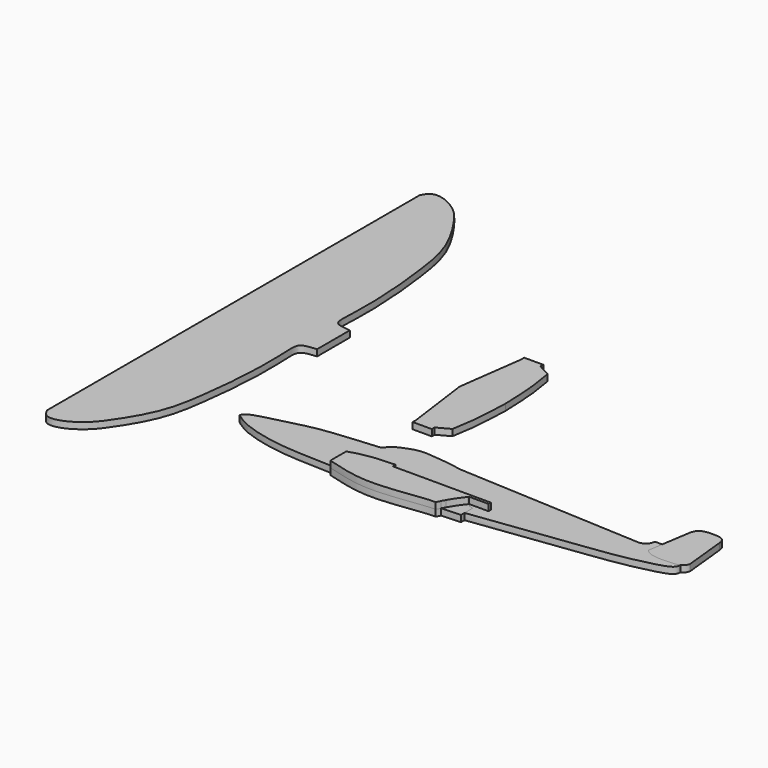
from build123d import *

# Parameters (mm, degrees)
F1_DEPTH = 5
F2_DEPTH = 5
F3_DEPTH = 5
F4_DEPTH = 5
F6_DEPTH = 5
F7_DEPTH = 5


with BuildPart() as f1:
    # F0 (on Top) → F1 (new body)
    with BuildSketch(Plane.XY):
        with BuildLine():
            Line((-207.6593637466, 10.0016277283), (-207.6593637466, -171.281978488))
            Line((-207.6593637466, -171.281978488), (-207.6593637466, -352.5655847043))
            add(Edge.make_bspline(
                [(-207.6593637466, -352.5655847043), (-206.3747216383, -354.8831175934), (-203.5310820846, -360.013128627), (-190.9650472226, -358.2474002693), (-177.3750296826, -348.8340273323), (-168.2906423465, -336.7192990207), (-150.8975639609, -309.0432472585), (-146.2628047298, -276.6532679829), (-143.0140328869, -250.0683610752), (-141.684480736, -218.266454162), (-142.4449634275, -206.8988884057), (-143.0588984681, -193.3498568449), (-140.8375847386, -188.3309381959), (-133.9440855533, -187.5906985826), (-129.7612637281, -187.1415376663)],
                knots=[0, 0, 0, 0, 0.0561235656, 0.1242331931, 0.2068389521, 0.2871011345, 0.4032578051, 0.520829172, 0.629954847, 0.7437946306, 0.8157831511, 0.8890225455, 0.9326613515, 1, 1, 1, 1], degree=3))
            Line((-129.7612637281, -187.1415376663), (-129.7612637281, -171.281978488))
            Line((-129.7612637281, -171.281978488), (-129.7612637281, -155.4224193096))
            add(Edge.make_bspline(
                [(-207.6593637466, 10.0016277283), (-206.3747216383, 12.3191606174), (-203.5310820846, 17.4491716511), (-190.9650472226, 15.6834432933), (-177.3750296826, 6.2700703563), (-168.2906423465, -5.8446579552), (-150.8975639609, -33.5207097175), (-146.2628047298, -65.910688993), (-143.0140328869, -92.4955959007), (-141.684480736, -124.2975028139), (-142.4449634275, -135.6650685702), (-143.0588984681, -149.214100131), (-140.8375847386, -154.2330187801), (-133.9440855533, -154.9732583934), (-129.7612637281, -155.4224193096)],
                knots=[0, 0, 0, 0, 0.0561235656, 0.1242331931, 0.2068389521, 0.2871011345, 0.4032578051, 0.520829172, 0.629954847, 0.7437946306, 0.8157831511, 0.8890225455, 0.9326613515, 1, 1, 1, 1], degree=3))
        make_face()
    extrude(amount=F1_DEPTH)


with BuildPart() as f2:
    # F0 (on Top) → F2 (new body)
    with BuildSketch(Plane.XY):
        with BuildLine():
            add(Edge.make_bspline(
                [(-112.391538918, -284.2938899994), (-111.8447805702, -283.1501024333), (-110.1606854076, -279.6270705224), (-91.2904582102, -275.3555163111), (-68.5847323573, -269.0118817211), (-47.8460745585, -266.4454808862), (-28.8688639212, -264.8961643914), (-18.5512062162, -264.0538215637)],
                knots=[0, 0, 0, 0, 0.0962974245, 0.2966100608, 0.5299407783, 0.7444350362, 1, 1, 1, 1], degree=3))
            add(Edge.make_bspline(
                [(-25.9523354471, -301.6351946396), (-29.1087058783, -301.4822739267), (-45.9038967663, -300.7009819231), (-69.2683124957, -300.6155547429), (-100.6468717996, -292.6647758588), (-109.0354293127, -286.6859212213), (-112.391538918, -284.2938899994)],
                knots=[0.7269244672, 0.7269244672, 0.7269244672, 0.7269244672, 0.7488875633, 0.8474896721, 0.9389833859, 1, 1, 1, 1], degree=3))
            Line((-25.9523354471, -301.6351946396), (-25.9523354471, -288.5697484016))
            add(Edge.make_bspline(
                [(8.3733123373, -283.5239334149), (5.457950757, -283.6055303601), (-3.4067164596, -283.9561770844), (-14.8683004783, -285.2741513849), (-22.455646544, -287.4679329531), (-25.9523354471, -288.5697484016)],
                knots=[0.2526391148, 0.2526391148, 0.2526391148, 0.2526391148, 0.4020433546, 0.7237168393, 1, 1, 1, 1], degree=3))
            add(Edge.make_bspline(
                [(23.758623749, -283.2736968994), (18.5300105367, -283.3326492618), (13.3031213573, -283.3859548674), (8.3733123373, -283.5239334149)],
                knots=[0, 0, 0, 0, 0.2526391148, 0.2526391148, 0.2526391148, 0.2526391148], degree=3))
            Line((23.758623749, -283.2736968994), (23.758623749, -286.2446308136))
            Line((23.758623749, -286.2446308136), (59.893632355, -286.3078026348))
            Line((59.893632355, -286.3078026348), (84.6855714917, -286.3511443138))
            Line((84.6855714917, -286.3511443138), (84.6855714917, -288.5697484016))
            Line((84.6855714917, -288.5697484016), (69.5529654622, -288.5697484016))
            add(Edge.make_bspline(
                [(69.1753177527, -289.0595980134), (69.3011219376, -288.8960688063), (69.4270209741, -288.7327887202), (69.5529654622, -288.5697484016)],
                knots=[0.9713766702, 0.9713766702, 0.9713766702, 0.9713766702, 1, 1, 1, 1], degree=3))
            add(Edge.make_bspline(
                [(69.1753177527, -289.0595980134), (69.7090565236, -289.2606077847), (70.8849671943, -289.7915857457), (71.6471028413, -290.8961307081), (73.5670959295, -291.2210691534), (74.6728777885, -291.4082109928)],
                knots=[0.50513394, 0.50513394, 0.50513394, 0.50513394, 0.6111732906, 0.7760629847, 1, 1, 1, 1], degree=3))
            Line((74.6728777885, -291.4082109928), (74.6728777885, -299.4195939721))
            add(Edge.make_bspline(
                [(219.9171489885, -270.9383708003), (219.9160916468, -270.9742452425), (219.866177794, -272.4922690984), (219.1591674255, -276.3032901521), (205.3770728292, -280.4433210086), (182.0951910478, -285.7259451098), (147.2195027629, -289.7830841249), (105.9233740606, -295.6847790187), (79.9219159081, -298.8290535469), (74.6728777885, -299.4195939721)],
                knots=[0.0890817977, 0.0890817977, 0.0890817977, 0.0890817977, 0.0899087706, 0.1241276638, 0.1829098704, 0.2638661796, 0.3612992866, 0.4875737459, 0.5194195479, 0.5194195479, 0.5194195479, 0.5194195479], degree=3))
            add(Edge.make_bspline(
                [(192.5774812698, -267.9077386856), (193.386830782, -268.8163125577), (195.1412475368, -270.7858167089), (200.2609067152, -272.0326080869), (205.6417510501, -272.6476844788), (212.1129773227, -272.0895349881), (216.7716693194, -272.0594027853), (219.280302367, -271.2247394151), (219.9171489884, -270.9383708002)],
                knots=[0, 0, 0, 0, 0.1240823714, 0.2689717953, 0.4206371346, 0.5847039952, 0.740078855, 0.7990427365, 0.7990427365, 0.7990427365, 0.7990427365], degree=3))
            Line((192.5774812698, -267.9077386856), (194.312971712, -256.6937804222))
            Line((194.312971712, -256.6937804222), (188.6335164309, -256.6937804222))
            ThreePointArc((188.6335164309, -256.6937804222), (186.2196909457, -261.7926355175), (180.9054911137, -263.6858224869))
            Line((180.9054911137, -263.6858224869), (36.6489849985, -256.3257813454))
            add(Edge.make_bspline(
                [(-18.5512062162, -264.0538215637), (-17.022533874, -262.2259181743), (-13.7591735452, -258.3237690732), (-4.7975671381, -254.6571514848), (4.1793383957, -251.868278122), (16.4905374853, -253.5010370677), (26.6424067979, -254.2565025605), (33.3275061027, -255.6389265908), (36.6489849985, -256.3257813454)],
                knots=[0, 0, 0, 0, 0.144158968, 0.3077459076, 0.4720205394, 0.6583044106, 0.8302291952, 1, 1, 1, 1], degree=3))
        make_face()
    extrude(amount=F2_DEPTH)


with BuildPart() as f3:
    # F0 (on Top) → F3 (new body)
    with BuildSketch(Plane.XY):
        with BuildLine():
            Line((-25.9523354471, -288.5697484016), (-25.9523354471, -301.6351946396))
            add(Edge.make_bspline(
                [(61.23197162, -300.8224032653), (48.6355331049, -302.0224565635), (18.7143641089, -304.0292007467), (-10.9791994708, -302.3606172978), (-25.9523354471, -301.6351946396)],
                knots=[0.5465548172, 0.5465548172, 0.5465548172, 0.5465548172, 0.6227363085, 0.7269244672, 0.7269244672, 0.7269244672, 0.7269244672], degree=3))
            add(Edge.make_bspline(
                [(61.2319716192, -300.8224032636), (61.8680700504, -299.6800683641), (64.2390383835, -295.6177632797), (67.0913738016, -291.7684562467), (69.1753177527, -289.0595980134)],
                knots=[0.3141973568, 0.3141973568, 0.3141973568, 0.3141973568, 0.4972317524, 0.9713766702, 0.9713766702, 0.9713766702, 0.9713766702], degree=3))
            add(Edge.make_bspline(
                [(59.893632355, -286.3078026348), (61.9885317234, -286.9089128835), (65.1832810631, -287.8256139905), (68.3000016852, -288.7299478322), (69.1753177527, -289.0595980134)],
                knots=[0, 0, 0, 0, 0.3312324879, 0.50513394, 0.50513394, 0.50513394, 0.50513394], degree=3))
            Line((59.893632355, -286.3078026348), (23.758623749, -286.2446308136))
            Line((23.758623749, -286.2446308136), (8.3733123373, -286.2781832977))
            Line((8.3733123373, -286.2781832977), (8.3733123373, -283.5239334149))
            add(Edge.make_bspline(
                [(8.3733123373, -283.5239334149), (5.457950757, -283.6055303601), (-3.4067164596, -283.9561770844), (-14.8683004783, -285.2741513849), (-22.455646544, -287.4679329531), (-25.9523354471, -288.5697484016)],
                knots=[0.2526391148, 0.2526391148, 0.2526391148, 0.2526391148, 0.4020433546, 0.7237168393, 1, 1, 1, 1], degree=3))
        make_face()
        with BuildLine():
            add(Edge.make_bspline(
                [(61.23197162, -300.8224032653), (48.6355331049, -302.0224565635), (18.7143641089, -304.0292007467), (-10.9791994708, -302.3606172978), (-25.9523354471, -301.6351946396)],
                knots=[0.5465548172, 0.5465548172, 0.5465548172, 0.5465548172, 0.6227363085, 0.7269244672, 0.7269244672, 0.7269244672, 0.7269244672], degree=3))
            Line((-25.9523354471, -301.6351946396), (-25.9523354471, -304.0618896484))
            add(Edge.make_bspline(
                [(-25.9523354471, -304.0618896484), (-17.2158571392, -306.5191802697), (0.07880288, -311.3836124089), (24.4600065759, -310.7677869933), (50.5849081856, -306.8062288071), (56.1901079853, -306.7817753964), (58.1043772399, -306.7734241486)],
                knots=[0, 0, 0, 0, 0.2878859378, 0.5698966155, 0.8531125179, 1, 1, 1, 1], degree=3))
            add(Edge.make_bspline(
                [(58.1043772399, -306.7734241486), (58.6413232114, -305.7172168727), (59.1797410963, -304.6620867022), (59.7294260294, -303.6122255351)],
                knots=[0, 0, 0, 0, 0.1661806987, 0.1661806987, 0.1661806987, 0.1661806987], degree=3))
            add(Edge.make_bspline(
                [(59.7294260294, -303.6122255351), (60.2190287775, -302.6771172912), (60.7175701395, -301.746189165), (61.2319716192, -300.8224032636)],
                knots=[0.1661806987, 0.1661806987, 0.1661806987, 0.1661806987, 0.3141973568, 0.3141973568, 0.3141973568, 0.3141973568], degree=3))
        make_face()
        with BuildLine():
            add(Edge.make_bspline(
                [(23.758623749, -283.2736968994), (18.5300105367, -283.3326492618), (13.3031213573, -283.3859548674), (8.3733123373, -283.5239334149)],
                knots=[0, 0, 0, 0, 0.2526391148, 0.2526391148, 0.2526391148, 0.2526391148], degree=3))
            Line((8.3733123373, -283.5239334149), (8.3733123373, -286.2781832977))
            Line((8.3733123373, -286.2781832977), (23.758623749, -286.2446308136))
            Line((23.758623749, -286.2446308136), (23.758623749, -283.2736968994))
        make_face()
        with BuildLine():
            add(Edge.make_bspline(
                [(59.893632355, -286.3078026348), (61.9885317234, -286.9089128835), (65.1832810631, -287.8256139905), (68.3000016852, -288.7299478322), (69.1753177527, -289.0595980134)],
                knots=[0, 0, 0, 0, 0.3312324879, 0.50513394, 0.50513394, 0.50513394, 0.50513394], degree=3))
            add(Edge.make_bspline(
                [(69.1753177527, -289.0595980134), (69.3011219376, -288.8960688063), (69.4270209741, -288.7327887202), (69.5529654622, -288.5697484016)],
                knots=[0.9713766702, 0.9713766702, 0.9713766702, 0.9713766702, 1, 1, 1, 1], degree=3))
            Line((69.5529654622, -288.5697484016), (84.6855714917, -288.5697484016))
            Line((84.6855714917, -288.5697484016), (84.6855714917, -286.3511443138))
            Line((84.6855714917, -286.3511443138), (59.893632355, -286.3078026348))
        make_face()
        with BuildLine():
            add(Edge.make_bspline(
                [(61.2319716192, -300.8224032636), (61.8680700504, -299.6800683641), (64.2390383835, -295.6177632797), (67.0913738016, -291.7684562467), (69.1753177527, -289.0595980134)],
                knots=[0.3141973568, 0.3141973568, 0.3141973568, 0.3141973568, 0.4972317524, 0.9713766702, 0.9713766702, 0.9713766702, 0.9713766702], degree=3))
            add(Edge.make_bspline(
                [(74.6728777885, -299.4195939721), (70.2002611771, -299.9227834813), (65.7187274649, -300.3949533838), (61.23197162, -300.8224032653)],
                knots=[0.5194195479, 0.5194195479, 0.5194195479, 0.5194195479, 0.5465548172, 0.5465548172, 0.5465548172, 0.5465548172], degree=3))
            Line((74.6728777885, -299.4195939721), (74.6728777885, -291.4082109928))
            add(Edge.make_bspline(
                [(69.1753177527, -289.0595980134), (69.7090565236, -289.2606077847), (70.8849671943, -289.7915857457), (71.6471028413, -290.8961307081), (73.5670959295, -291.2210691534), (74.6728777885, -291.4082109928)],
                knots=[0.50513394, 0.50513394, 0.50513394, 0.50513394, 0.6111732906, 0.7760629847, 1, 1, 1, 1], degree=3))
        make_face()
        with BuildLine():
            add(Edge.make_bspline(
                [(74.6728777885, -299.4195939721), (70.2002611771, -299.9227834813), (65.7187274649, -300.3949533838), (61.23197162, -300.8224032653)],
                knots=[0.5194195479, 0.5194195479, 0.5194195479, 0.5194195479, 0.5465548172, 0.5465548172, 0.5465548172, 0.5465548172], degree=3))
            add(Edge.make_bspline(
                [(59.7294260294, -303.6122255351), (60.2190287775, -302.6771172912), (60.7175701395, -301.746189165), (61.2319716192, -300.8224032636)],
                knots=[0.1661806987, 0.1661806987, 0.1661806987, 0.1661806987, 0.3141973568, 0.3141973568, 0.3141973568, 0.3141973568], degree=3))
            add(Edge.make_bspline(
                [(59.7294260173, -303.612225505), (64.8096064789, -303.3629183414), (69.5919756586, -303.1060918829), (74.6728777885, -302.8568029404)],
                knots=[0.0181074041, 0.0181074041, 0.0181074041, 0.0181074041, 14.9810005615, 14.9810005615, 14.9810005615, 14.9810005615], degree=3))
            Line((74.6728777885, -302.8568029404), (74.6728777885, -299.4195939721))
        make_face()
    extrude(amount=F3_DEPTH)


with BuildPart() as f4:
    # F0 (on Top) → F4 (new body)
    with BuildSketch(Plane.XY):
        with BuildLine():
            Line((-25.9523354471, -288.5697484016), (-25.9523354471, -301.6351946396))
            add(Edge.make_bspline(
                [(61.23197162, -300.8224032653), (48.6355331049, -302.0224565635), (18.7143641089, -304.0292007467), (-10.9791994708, -302.3606172978), (-25.9523354471, -301.6351946396)],
                knots=[0.5465548172, 0.5465548172, 0.5465548172, 0.5465548172, 0.6227363085, 0.7269244672, 0.7269244672, 0.7269244672, 0.7269244672], degree=3))
            add(Edge.make_bspline(
                [(61.2319716192, -300.8224032636), (61.8680700504, -299.6800683641), (64.2390383835, -295.6177632797), (67.0913738016, -291.7684562467), (69.1753177527, -289.0595980134)],
                knots=[0.3141973568, 0.3141973568, 0.3141973568, 0.3141973568, 0.4972317524, 0.9713766702, 0.9713766702, 0.9713766702, 0.9713766702], degree=3))
            add(Edge.make_bspline(
                [(59.893632355, -286.3078026348), (61.9885317234, -286.9089128835), (65.1832810631, -287.8256139905), (68.3000016852, -288.7299478322), (69.1753177527, -289.0595980134)],
                knots=[0, 0, 0, 0, 0.3312324879, 0.50513394, 0.50513394, 0.50513394, 0.50513394], degree=3))
            Line((59.893632355, -286.3078026348), (23.758623749, -286.2446308136))
            Line((23.758623749, -286.2446308136), (8.3733123373, -286.2781832977))
            Line((8.3733123373, -286.2781832977), (8.3733123373, -283.5239334149))
            add(Edge.make_bspline(
                [(8.3733123373, -283.5239334149), (5.457950757, -283.6055303601), (-3.4067164596, -283.9561770844), (-14.8683004783, -285.2741513849), (-22.455646544, -287.4679329531), (-25.9523354471, -288.5697484016)],
                knots=[0.2526391148, 0.2526391148, 0.2526391148, 0.2526391148, 0.4020433546, 0.7237168393, 1, 1, 1, 1], degree=3))
        make_face()
        with BuildLine():
            add(Edge.make_bspline(
                [(61.23197162, -300.8224032653), (48.6355331049, -302.0224565635), (18.7143641089, -304.0292007467), (-10.9791994708, -302.3606172978), (-25.9523354471, -301.6351946396)],
                knots=[0.5465548172, 0.5465548172, 0.5465548172, 0.5465548172, 0.6227363085, 0.7269244672, 0.7269244672, 0.7269244672, 0.7269244672], degree=3))
            Line((-25.9523354471, -301.6351946396), (-25.9523354471, -304.0618896484))
            add(Edge.make_bspline(
                [(-25.9523354471, -304.0618896484), (-17.2158571392, -306.5191802697), (0.07880288, -311.3836124089), (24.4600065759, -310.7677869933), (50.5849081856, -306.8062288071), (56.1901079853, -306.7817753964), (58.1043772399, -306.7734241486)],
                knots=[0, 0, 0, 0, 0.2878859378, 0.5698966155, 0.8531125179, 1, 1, 1, 1], degree=3))
            add(Edge.make_bspline(
                [(58.1043772399, -306.7734241486), (58.6413232114, -305.7172168727), (59.1797410963, -304.6620867022), (59.7294260294, -303.6122255351)],
                knots=[0, 0, 0, 0, 0.1661806987, 0.1661806987, 0.1661806987, 0.1661806987], degree=3))
            add(Edge.make_bspline(
                [(59.7294260294, -303.6122255351), (60.2190287775, -302.6771172912), (60.7175701395, -301.746189165), (61.2319716192, -300.8224032636)],
                knots=[0.1661806987, 0.1661806987, 0.1661806987, 0.1661806987, 0.3141973568, 0.3141973568, 0.3141973568, 0.3141973568], degree=3))
        make_face()
        with BuildLine():
            add(Edge.make_bspline(
                [(59.893632355, -286.3078026348), (61.9885317234, -286.9089128835), (65.1832810631, -287.8256139905), (68.3000016852, -288.7299478322), (69.1753177527, -289.0595980134)],
                knots=[0, 0, 0, 0, 0.3312324879, 0.50513394, 0.50513394, 0.50513394, 0.50513394], degree=3))
            add(Edge.make_bspline(
                [(69.1753177527, -289.0595980134), (69.3011219376, -288.8960688063), (69.4270209741, -288.7327887202), (69.5529654622, -288.5697484016)],
                knots=[0.9713766702, 0.9713766702, 0.9713766702, 0.9713766702, 1, 1, 1, 1], degree=3))
            Line((69.5529654622, -288.5697484016), (84.6855714917, -288.5697484016))
            Line((84.6855714917, -288.5697484016), (84.6855714917, -286.3511443138))
            Line((84.6855714917, -286.3511443138), (59.893632355, -286.3078026348))
        make_face()
    extrude(amount=F4_DEPTH)


with BuildPart() as f4_1:
    # F5: moved
    add(f4.part.moved(Location((0, 0, 5))))


with BuildPart() as f6:
    # F0 (on Top) → F6 (new body)
    with BuildSketch(Plane.XY):
        with BuildLine():
            Line((-9.7174216062, -117.3293143511), (-24.574900046, -117.3293143511))
            Line((-24.574900046, -117.3293143511), (-24.574900046, -120.630979538))
            Line((-24.574900046, -120.630979538), (-31.4533635974, -171.5316027403))
            Line((-31.4533635974, -171.5316027403), (-24.574900046, -222.4322259426))
            Line((-24.574900046, -222.4322259426), (-24.574900046, -225.7338911295))
            Line((-24.574900046, -225.7338911295), (-9.7174216062, -225.7338911295))
            Line((-9.7174216062, -225.7338911295), (-9.7174216062, -222.9825034738))
            Line((-9.7174216062, -222.9825034738), (0, -217.7548706532))
            add(Edge.make_bspline(
                [(0, -217.7548706532), (0.9880366086, -212.2486644715), (3.2295139092, -199.75718788), (3.9254640851, -181.6546147948), (4.3146414682, -171.5316027403)],
                knots=[0, 0, 0, 0, 0.440797062, 1, 1, 1, 1], degree=3))
            add(Edge.make_bspline(
                [(0, -125.3083348274), (0.9880366086, -130.814541009), (3.2295139092, -143.3060176006), (3.9254640851, -161.4085906857), (4.3146414682, -171.5316027403)],
                knots=[0, 0, 0, 0, 0.440797062, 1, 1, 1, 1], degree=3))
            Line((0, -125.3083348274), (-9.7174216062, -120.0807020068))
            Line((-9.7174216062, -120.0807020068), (-9.7174216062, -117.3293143511))
        make_face()
    extrude(amount=F6_DEPTH)


with BuildPart() as f7:
    # F0 (on Top) → F7 (new body)
    with BuildSketch(Plane.XY):
        with BuildLine():
            add(Edge.make_bspline(
                [(215.4976129532, -256.6937804222), (216.948282295, -259.7742868293), (219.4821551501, -265.1549834085), (219.9658388229, -269.2863782423), (219.9171489885, -270.9383708003)],
                knots=[0, 0, 0, 0, 0.0510002831, 0.0890817977, 0.0890817977, 0.0890817977, 0.0890817977], degree=3))
            add(Edge.make_bspline(
                [(219.9171489884, -270.9383708002), (220.8062773656, -270.5385595219), (222.7232686062, -269.2925179735), (223.317388829, -267.4702460671), (223.668128252, -266.3944661617)],
                knots=[0.7990427365, 0.7990427365, 0.7990427365, 0.7990427365, 0.8813646936, 1, 1, 1, 1], degree=3))
            Line((223.668128252, -266.3944661617), (220.228895545, -233.2402765751))
            add(Edge.make_bspline(
                [(197.94267416, -233.2402765751), (198.4111036605, -232.1112416318), (199.3467384947, -229.8561223006), (202.4172867712, -227.6670960719), (207.5832427392, -226.8888593594), (212.1992627906, -227.0577476973), (215.8299918746, -227.1388017936), (219.5019433522, -229.2301259335), (219.9851357738, -231.8956030013), (220.228895545, -233.2402765751)],
                knots=[0, 0, 0, 0, 0.1346319677, 0.2689120958, 0.4311167903, 0.5852454502, 0.7204734107, 0.8589850866, 1, 1, 1, 1], degree=3))
            Line((197.94267416, -233.2402765751), (194.312971712, -256.6937804222))
            Line((194.312971712, -256.6937804222), (215.4976129532, -256.6937804222))
        make_face()
        with BuildLine():
            add(Edge.make_bspline(
                [(192.5774812698, -267.9077386856), (193.386830782, -268.8163125577), (195.1412475368, -270.7858167089), (200.2609067152, -272.0326080869), (205.6417510501, -272.6476844788), (212.1129773227, -272.0895349881), (216.7716693194, -272.0594027853), (219.280302367, -271.2247394151), (219.9171489884, -270.9383708002)],
                knots=[0, 0, 0, 0, 0.1240823714, 0.2689717953, 0.4206371346, 0.5847039952, 0.740078855, 0.7990427365, 0.7990427365, 0.7990427365, 0.7990427365], degree=3))
            add(Edge.make_bspline(
                [(215.4976129532, -256.6937804222), (216.948282295, -259.7742868293), (219.4821551501, -265.1549834085), (219.9658388229, -269.2863782423), (219.9171489885, -270.9383708003)],
                knots=[0, 0, 0, 0, 0.0510002831, 0.0890817977, 0.0890817977, 0.0890817977, 0.0890817977], degree=3))
            Line((215.4976129532, -256.6937804222), (194.312971712, -256.6937804222))
            Line((194.312971712, -256.6937804222), (192.5774812698, -267.9077386856))
        make_face()
    extrude(amount=F7_DEPTH)


solid = Compound([f1.part, f2.part, f3.part, f4_1.part, f6.part, f7.part])
